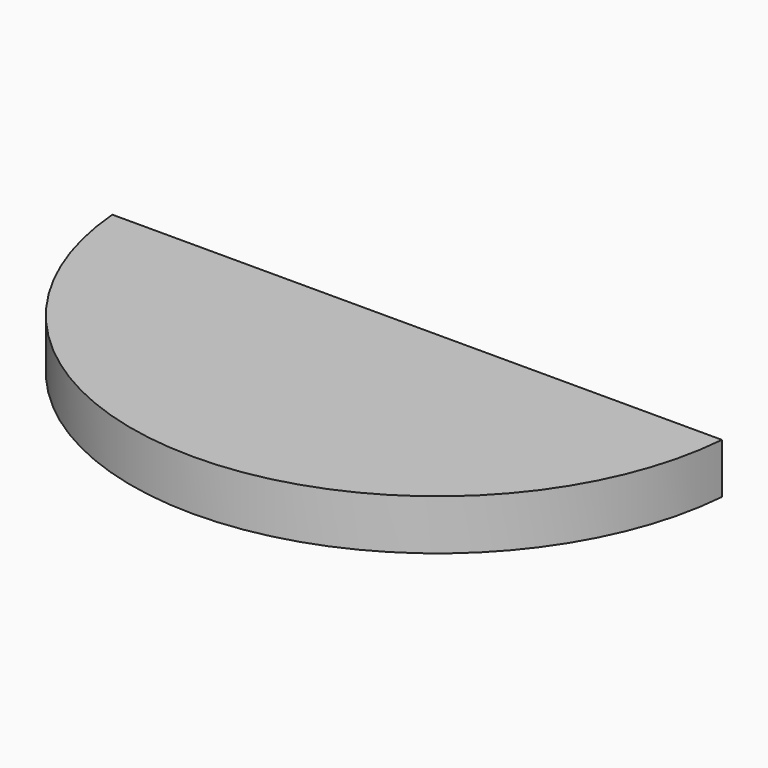
from build123d import *

# Parameters (mm, degrees)
F1_DEPTH = 4.191


with BuildPart() as f1:
    # F0 (on Top) → F1 (new body)
    with BuildSketch(Plane.XY):
        with BuildLine():
            Line((-23.474382, 0), (-27.665382, 0))
            ThreePointArc((-27.665382, 0), (-2.265382, -23.361579), (23.134618, 0))
            Line((23.134618, 0), (18.943618, 0))
            Line((18.943618, 0), (9.970825, 0))
            Line((9.970825, 0), (5.779825, 0))
            Line((5.779825, 0), (-6.075382, 0))
            Line((-6.075382, 0), (-10.266382, 0))
            Line((-10.266382, 0), (-23.474382, 0))
        make_face()
    extrude(amount=F1_DEPTH)


solid = f1.part
